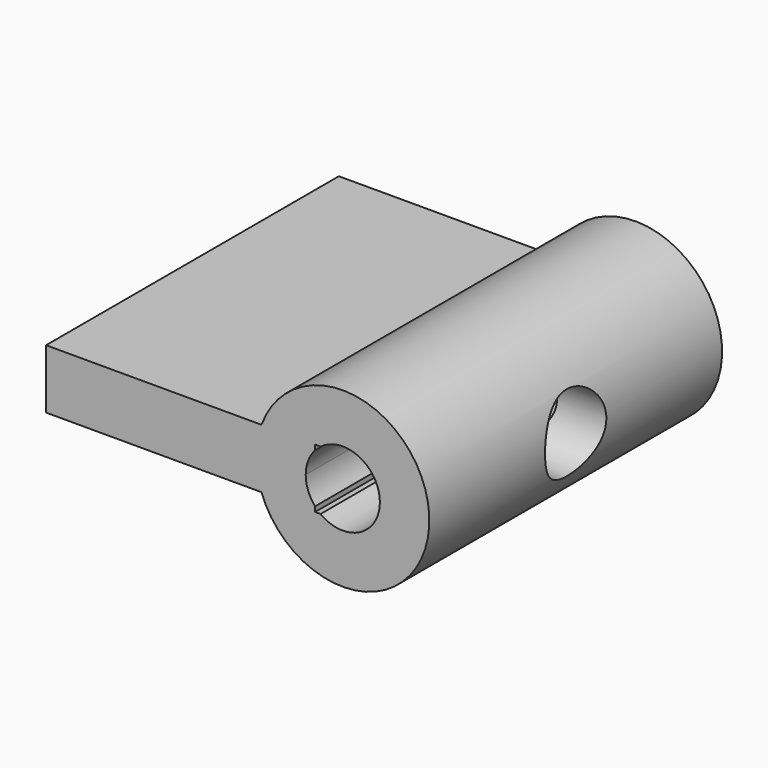
from build123d import *

# Parameters (mm, degrees)
F0_R      = 11.1125
F0_R_2    = 4.7625
F1_DEPTH  = 46.99
F2_W      = 46.99
F2_H      = 7.62
F3_DEPTH  = 38.1
F3_FACE_W = 46.99
F3_FACE_H = 7.62
F4_DEPTH  = 3.556
F5_R      = 0.79375
F6_DEPTH  = 25.4
F7_R      = 4.92125
F8_DEPTH  = 25.4
F10_DEPTH = 46.991


with BuildPart() as f1:
    # F0 (on Front) → F1 (new body)
    with BuildSketch(Plane.XZ):
        Circle(F0_R)
        Circle(F0_R_2, mode=Mode.SUBTRACT)
    extrude(amount=F1_DEPTH)

    # F2 (on Right) → F3 (join)
    with BuildSketch(Plane.YZ):
        with Locations((-23.495, 0)):
            Rectangle(F2_W, F2_H)
    extrude(amount=-F3_DEPTH)

    # F3_face (on face) → F4 (cut)
    with BuildSketch(Plane(origin=(0, -23.495, 0), x_dir=(0, 1, 0), z_dir=(1, 0, 0))):
        Rectangle(F3_FACE_W, F3_FACE_H)
    extrude(amount=-F4_DEPTH, mode=Mode.SUBTRACT)

    # F5 (on Top) → F6 (cut)
    with BuildSketch(Plane.XY):
        with Locations((0, -7.62)):
            Circle(F5_R)
        with Locations((0, -39.37)):
            Circle(F5_R)
    extrude(amount=-F6_DEPTH, mode=Mode.SUBTRACT)

    # F7 (on Right) → F8 (cut)
    with BuildSketch(Plane.YZ):
        with Locations((-23.495, 0)):
            Circle(F7_R)
    extrude(amount=F8_DEPTH, mode=Mode.SUBTRACT)

    # F9 (on face) → F10 (cut, through all)
    with BuildSketch(Plane(origin=(0, 0, 0), x_dir=(-1, 0, 0), z_dir=(0, 1, 0))):
        with BuildLine():
            ThreePointArc((2.8575, 3.81), (-4.7625, 0), (2.8575, -3.81))
            ThreePointArc((2.8575, -3.81), (4.259709, -2.129855), (4.7625, 0))
            ThreePointArc((4.7625, 0), (4.259709, 2.129855), (2.8575, 3.81))
        make_face()
    extrude(amount=-F10_DEPTH, mode=Mode.SUBTRACT)


solid = f1.part
